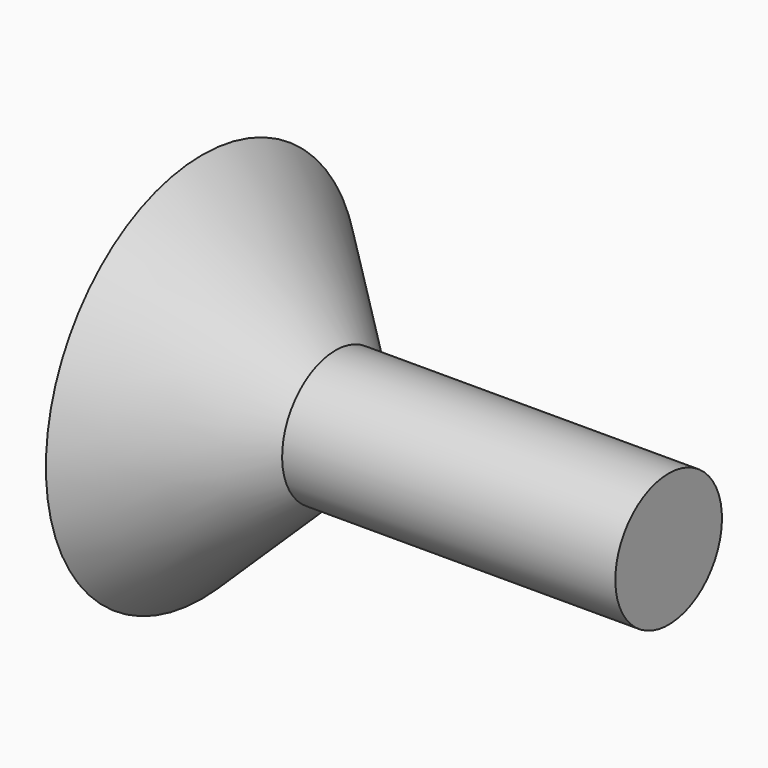
from build123d import *

# Parameters (mm, degrees)
F3_DEPTH = 4


with BuildPart() as f1:
    # F0 (on Front) → F1 (revolve)
    with BuildSketch(Plane.XZ):
        Polygon((0, 14.656888), (0, 0), (35, 0), (35, 5), (10, 5), align=None)
    revolve(axis=Axis((17.5, 0, 0), (1, 0, 0)))

    # F2 (on Right) → F3 (cut)
    with BuildSketch(Plane.YZ):
        Polygon((0, 6.928203), (-6, 3.464102), (-6, -3.464102), (0, -6.928203), (6, -3.464102), (6, 3.464102), align=None)
    extrude(amount=F3_DEPTH, mode=Mode.SUBTRACT)


solid = f1.part
